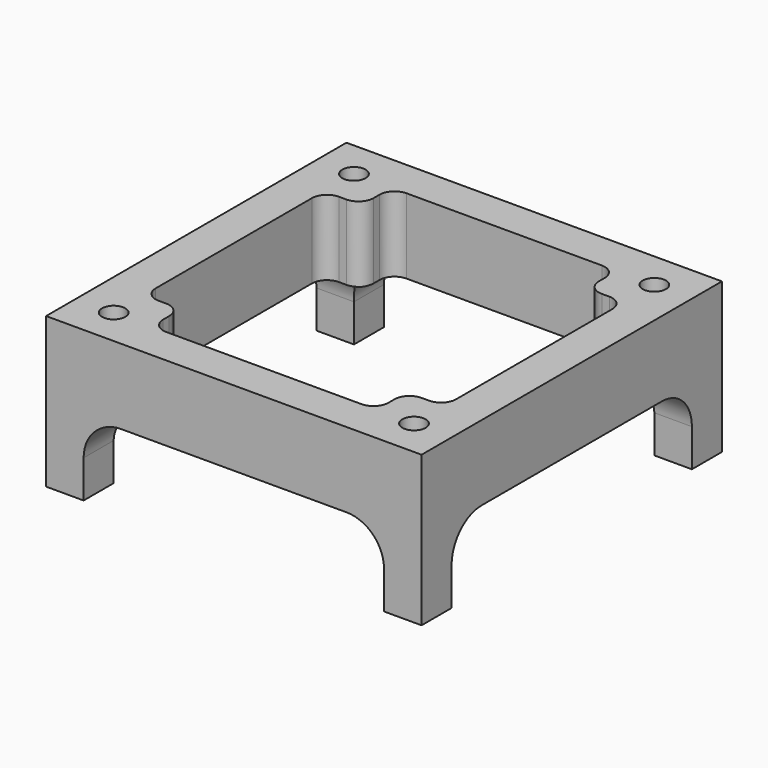
from build123d import *

# Parameters (mm, degrees)
SKETCH199_W             = 50
SKETCH199_H             = 50
PAD034_DEPTH            = 20
POCKET166_DEPTH         = 20.001
POCKET167_DEPTH         = 50.001
POCKET168_DEPTH         = 50.001
SKETCH203_R             = 1.55
POCKET169_DEPTH         = 5
SKETCH204_R             = 1.55
POCKET170_DEPTH         = 3
BODY035_PLACEMENT_ANGLE = 90


with BuildPart() as part:
    # Sketch199 → Pad034 (new body)
    with BuildSketch(Plane.XY):
        Rectangle(SKETCH199_W, SKETCH199_H)
    extrude(amount=PAD034_DEPTH)

    # Sketch200 (on Face6 of Pad034) → Pocket166 (cut, through all)
    with BuildSketch(Plane.XY.offset(20)):
        with BuildLine():
            Line((-18, 15), (-17, 15))
            ThreePointArc((-17, 15), (-15.585786, 15.585786), (-15, 17))
            Line((-15, 17), (-15, 18))
            ThreePointArc((-13, 20), (-14.414214, 19.414214), (-15, 18))
            Line((-13, 20), (13, 20))
            ThreePointArc((15, 18), (14.414214, 19.414214), (13, 20))
            Line((15, 18), (15, 17))
            ThreePointArc((15, 17), (15.585786, 15.585786), (17, 15))
            Line((17, 15), (18, 15))
            ThreePointArc((20, 13), (19.414214, 14.414214), (18, 15))
            Line((20, 13), (20, -13))
            ThreePointArc((18, -15), (19.414214, -14.414214), (20, -13))
            Line((18, -15), (17, -15))
            ThreePointArc((17, -15), (15.585786, -15.585786), (15, -17))
            Line((15, -17), (15, -18))
            ThreePointArc((13, -20), (14.414214, -19.414214), (15, -18))
            Line((13, -20), (-13, -20))
            ThreePointArc((-15, -18), (-14.414214, -19.414214), (-13, -20))
            Line((-15, -18), (-15, -17))
            ThreePointArc((-15, -17), (-15.585786, -15.585786), (-17, -15))
            Line((-17, -15), (-18, -15))
            ThreePointArc((-20, -13), (-19.414214, -14.414214), (-18, -15))
            Line((-20, -13), (-20, 13))
            ThreePointArc((-18, 15), (-19.414214, 14.414214), (-20, 13))
        make_face()
    extrude(amount=-POCKET166_DEPTH, mode=Mode.SUBTRACT)

    # Sketch201 (on Face3 of Pocket166) → Pocket167 (cut, through all)
    with BuildSketch(Plane.YZ.offset(25)):
        with BuildLine():
            Line((-15, 10), (15, 10))
            ThreePointArc((20, 5), (18.535534, 8.535534), (15, 10))
            Line((20, 5), (20, 0))
            Line((20, 0), (-20, 0))
            Line((-20, 0), (-20, 5))
            ThreePointArc((-15, 10), (-18.535534, 8.535534), (-20, 5))
        make_face()
    extrude(amount=-POCKET167_DEPTH, mode=Mode.SUBTRACT)

    # Sketch202 (on Face6 of Pocket166) → Pocket168 (cut, through all)
    with BuildSketch(Plane.XZ.offset(25)):
        with BuildLine():
            Line((-15, 10), (15, 10))
            ThreePointArc((20, 5), (18.535534, 8.535534), (15, 10))
            Line((20, 5), (20, 0))
            Line((20, 0), (-20, 0))
            Line((-20, 0), (-20, 5))
            ThreePointArc((-15, 10), (-18.535534, 8.535534), (-20, 5))
        make_face()
    extrude(amount=-POCKET168_DEPTH, mode=Mode.SUBTRACT)

    # Sketch203 → Pocket169 (cut)
    with BuildSketch(Plane.XY.offset(20)):
        with Locations((-20, 20)):
            Circle(SKETCH203_R)
        with Locations((20, 20)):
            Circle(SKETCH203_R)
        with Locations((20, -20)):
            Circle(SKETCH203_R)
        with Locations((-20, -20)):
            Circle(SKETCH203_R)
    extrude(amount=-POCKET169_DEPTH, mode=Mode.SUBTRACT)

    # Sketch204 (on Face27 of Pocket169) → Pocket170 (cut)
    with BuildSketch(Plane.XZ.offset(25)):
        with Locations((-20, 14)):
            Circle(SKETCH204_R)
        with Locations((20, 14)):
            Circle(SKETCH204_R)
    extrude(amount=-POCKET170_DEPTH, mode=Mode.SUBTRACT)


with BuildPart() as part_1:
    # Body035 placement: moved
    add(part.part.moved(Location((25, 85, 0))).rotate(Axis((25, 85, 0), (0, 0, -1)), BODY035_PLACEMENT_ANGLE))


solid = part_1.part
